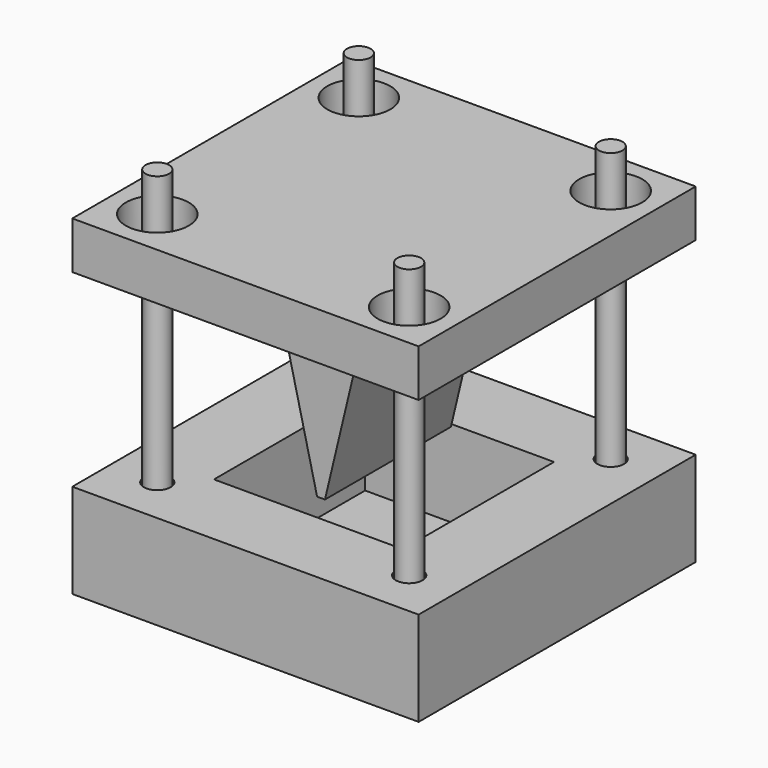
from build123d import *

# Parameters (mm, degrees)
BOX_W             = 44
BOX_H             = 44
BOX_DEPTH         = 12
SKETCH_R          = 1.7
SKETCH_W          = 24
SKETCH_H          = 24
POCKET_DEPTH      = 11
PAD_DEPTH         = 20
BOX001_W          = 44
BOX001_H          = 44
BOX001_DEPTH      = 6
SKETCH002_R       = 4
POCKET001_DEPTH   = 7
CYLINDER_R        = 1.5
CYLINDER_DEPTH    = 45
CYLINDER001_R     = 1.5
CYLINDER001_DEPTH = 45
CYLINDER002_R     = 1.5
CYLINDER002_DEPTH = 45
CYLINDER003_R     = 1.5
CYLINDER003_DEPTH = 45


with BuildPart() as pocket:
    # Box → Box (new body)
    with BuildSketch(Plane(origin=(-2, -2, -2), x_dir=(1, 0, 0), z_dir=(0, 0, 1))):
        with Locations((22, 22)):
            Rectangle(BOX_W, BOX_H)
    extrude(amount=BOX_DEPTH)

    # Sketch (on Face6 of Box) → Pocket (cut)
    with BuildSketch(Plane(origin=(-2, -2, 10), x_dir=(1, 0, 0), z_dir=(0, 0, 1))):
        with Locations((6, 38)):
            Circle(SKETCH_R)
        with Locations((38, 38)):
            Circle(SKETCH_R)
        with Locations((38, 6)):
            Circle(SKETCH_R)
        with Locations((6, 6)):
            Circle(SKETCH_R)
        with Locations((22, 22)):
            Rectangle(SKETCH_W, SKETCH_H)
    extrude(amount=-POCKET_DEPTH, mode=Mode.SUBTRACT)


with BuildPart() as pad:
    # Sketch001 → Pad (new body)
    with BuildSketch(Plane.XZ.offset(-30)):
        Polygon((0, 40), (40, 40), (40, 34), (26, 34), (20.5, 11), (19.5, 11), (14, 34), (0, 34), align=None)
    extrude(amount=PAD_DEPTH)


with BuildPart() as pocket001:
    # Box001 → Box001 (new body)
    with BuildSketch(Plane(origin=(-2, -2, 34), x_dir=(1, 0, 0), z_dir=(0, 0, 1))):
        with Locations((22, 22)):
            Rectangle(BOX001_W, BOX001_H)
    extrude(amount=BOX001_DEPTH)

    # Sketch002 (on Face6 of Box001) → Pocket001 (cut)
    with BuildSketch(Plane(origin=(-2, -2, 40), x_dir=(1, 0, 0), z_dir=(0, 0, 1))):
        with Locations((6, 38)):
            Circle(SKETCH002_R)
        with Locations((38, 38)):
            Circle(SKETCH002_R)
        with Locations((6, 6)):
            Circle(SKETCH002_R)
        with Locations((38, 6)):
            Circle(SKETCH002_R)
    extrude(amount=-POCKET001_DEPTH, mode=Mode.SUBTRACT)


with BuildPart() as cylinder:
    # Cylinder → Cylinder (new body)
    with BuildSketch(Plane(origin=(4, 4, 0), x_dir=(1, 0, 0), z_dir=(0, 0, 1))):
        Circle(CYLINDER_R)
    extrude(amount=CYLINDER_DEPTH)


with BuildPart() as cylinder001:
    # Cylinder001 → Cylinder001 (new body)
    with BuildSketch(Plane(origin=(4, 36, 0), x_dir=(1, 0, 0), z_dir=(0, 0, 1))):
        Circle(CYLINDER001_R)
    extrude(amount=CYLINDER001_DEPTH)


with BuildPart() as cylinder002:
    # Cylinder002 → Cylinder002 (new body)
    with BuildSketch(Plane(origin=(36, 36, 0), x_dir=(1, 0, 0), z_dir=(0, 0, 1))):
        Circle(CYLINDER002_R)
    extrude(amount=CYLINDER002_DEPTH)


with BuildPart() as cylinder003:
    # Cylinder003 → Cylinder003 (new body)
    with BuildSketch(Plane(origin=(36, 4, 0), x_dir=(1, 0, 0), z_dir=(0, 0, 1))):
        Circle(CYLINDER003_R)
    extrude(amount=CYLINDER003_DEPTH)


solid = Compound([pocket.part, pad.part, pocket001.part, cylinder.part, cylinder001.part, cylinder002.part, cylinder003.part])
